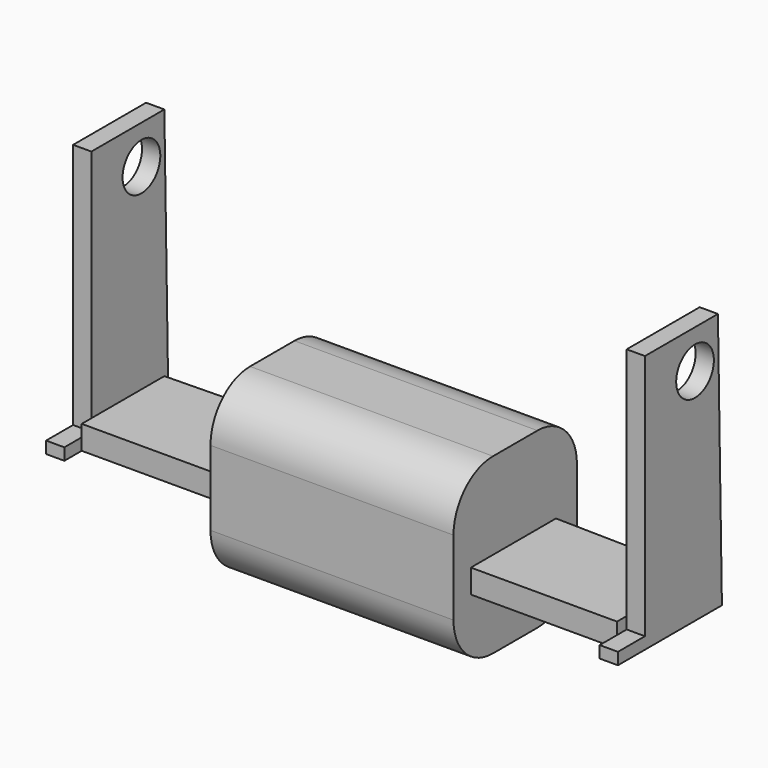
from build123d import *

# Parameters (mm, degrees)
F1_DEPTH = 25
F2_R     = 8
F3_W     = 23.684212938
F3_H     = 3.5125516355
F4_DEPTH = 25
F5_W     = 5.4730284959
F5_H     = 39.9671059567
F6_DEPTH = 25
F7_R     = 3.8177779447
F8_DEPTH = 25


with BuildPart() as f1:
    # F0 (on Front) → F1 (new body)
    with BuildSketch(Plane.XZ):
        Polygon((0, -10.2138156071), (0, 17.9111845791), (-19.6875017136, 17.9111845791), (-19.6875017136, 3.848684486), (-19.6875017136, 0), (-19.6875017136, -10.2138156071), align=None)
        Polygon((-19.6875017136, 0), (-19.6875017136, 3.848684486), (-43.3717146516, 3.848684486), (-43.3717146516, 41.8914481997), (-46.3322401047, 41.8914481997), (-46.3322401047, 0), align=None)
    extrude(amount=F1_DEPTH)

    # F2
    f2_edges = [f1.edges().sort_by_distance(p)[0] for p in [
        (-9.843751, 0, 17.911185),
        (-9.843751, 0, -10.213816),
        (-9.843751, -25, -10.213816),
        (-9.843751, -25, 17.911185),
    ]]
    fillet(f2_edges, radius=F2_R)

    # F3 (on face) → F4 (cut)
    with BuildSketch(Plane.XY.offset(3.848684486)):
        with Locations((-31.5296081826, -23.2437241822)):
            Rectangle(F3_W, F3_H)
        Polygon((-43.3717146516, -4.7452212311), (-19.6875017136, -4.2484635487), (-19.6875017136, 0), (-20.5312147737, 0), (-43.3717146516, 0), align=None)
    extrude(amount=-F4_DEPTH, mode=Mode.SUBTRACT)

    # F5 (on face) → F6 (cut)
    with BuildSketch(Plane.YZ.offset(-43.3717146516)):
        with Locations((-22.263485752, 21.9078952214)):
            Rectangle(F5_W, F5_H)
        Polygon((0, 41.8914481997), (-4.7452212311, 41.8914481997), (-3.9370520972, 0), (0, 0), (0, 40.7377965748), align=None)
    extrude(amount=-F6_DEPTH, mode=Mode.SUBTRACT)

    # F7 (on face) → F8 (cut)
    with BuildSketch(Plane(origin=(-46.3322401047, 0, 0), x_dir=(0, -1, 0), z_dir=(-1, 0, 0))):
        with Locations((9.3853315338, 35.6243662536)):
            Circle(F7_R)
    extrude(amount=-F8_DEPTH, mode=Mode.SUBTRACT)

    # F9: F1 across plane


with BuildPart() as f1_1:
    add(f1.part)
    add(f1.part.mirror(Plane.YZ))


solid = f1_1.part
